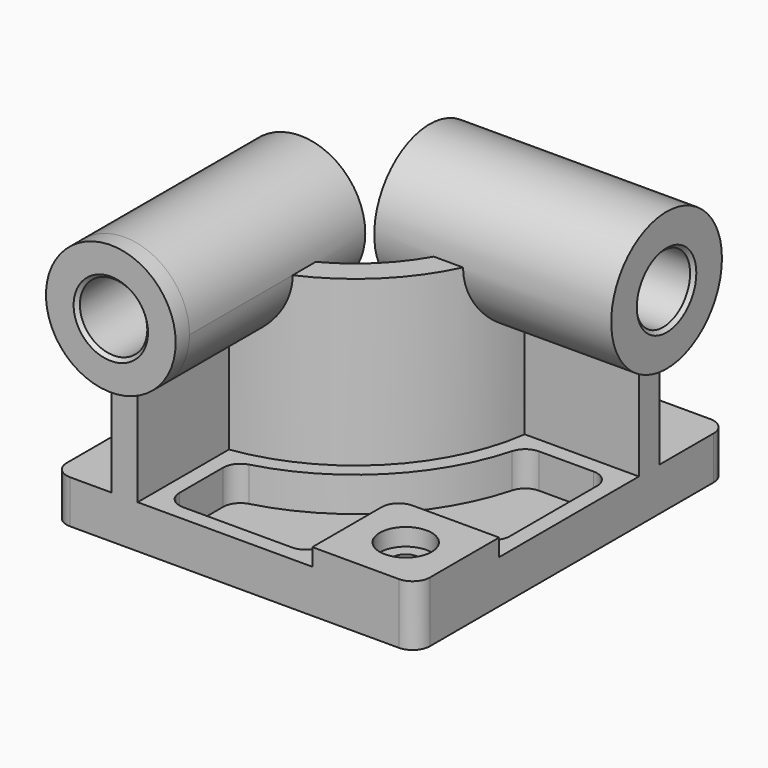
from build123d import *

# Parameters (mm, degrees)
F0_W            = 210
F0_H            = 225
F1_DEPTH        = 25
F3_DEPTH        = 95
F4_R            = 37.5
F5_DEPTH        = 10
F5_DEPTH_BACK   = 127
F6_R            = 40
F7_DEPTH        = 10
F7_DEPTH_BACK   = 127
F8_W            = 60
F8_H            = 60
F9_DEPTH        = 10
F10_R           = 10
F12_DEPTH       = 20
F14_D           = 15
F14_CBORE_D     = 30
F14_CBORE_DEPTH = 10
F15_R           = 10
F16_R           = 19.5
F17_DEPTH       = 235.001
F18_R           = 19.5
F19_DEPTH       = 220.001
F20_SIZE        = 2
F21_R           = 10


with BuildPart() as f1:
    # F0 (on Top) → F1 (new body)
    with BuildSketch(Plane.XY):
        Rectangle(F0_W, F0_H)
    extrude(amount=F1_DEPTH)

    # F2 (on face) → F3 (join)
    with BuildSketch(Plane.XY.offset(25)):
        with BuildLine():
            Line((-71, -32.5), (-71, -112.5))
            Line((-71, -112.5), (-56, -112.5))
            Line((-56, -112.5), (-56, -46.481817))
            ThreePointArc((-56, -46.481817), (7.488853, -14.988853), (38.981817, 48.5))
            Line((38.981817, 48.5), (105, 48.5))
            Line((105, 48.5), (105, 63.5))
            Line((105, 63.5), (25, 63.5))
            ThreePointArc((25, 63.5), (-3.117749, -4.382251), (-71, -32.5))
        make_face()
    extrude(amount=F3_DEPTH)

    # F4 (on face) → F5 (join, two sides)
    with BuildSketch(Plane.XZ.offset(112.5)) as f5_sk:
        with Locations((-63.5, 120)):
            Circle(F4_R)
    extrude(amount=F5_DEPTH)
    extrude(f5_sk.sketch, amount=-F5_DEPTH_BACK)

    # F6 (on face) → F7 (join, two sides)
    with BuildSketch(Plane.YZ.offset(105)) as f7_sk:
        with Locations((56, 120)):
            Circle(F6_R)
    extrude(amount=F7_DEPTH)
    extrude(f7_sk.sketch, amount=-F7_DEPTH_BACK)

    # F8 (on face) → F9 (join)
    with BuildSketch(Plane.XY.offset(25)):
        with Locations((75, -82.5)):
            Rectangle(F8_W, F8_H)
    extrude(amount=F9_DEPTH)

    # F10
    f10_edges = [f1.edges().sort_by_distance(p)[0] for p in [
        (45, -52.5, 30),
    ]]
    fillet(f10_edges, radius=F10_R)

    # F11 (on face) → F12 (cut)
    with BuildSketch(Plane.XY.offset(25)):
        with BuildLine():
            ThreePointArc((46.575508, 39.5), (13.852814, -21.352814), (-47, -54.075508))
            Line((-47, -54.075508), (-47, -103.5))
            Line((-47, -103.5), (36, -103.5))
            Line((36, -103.5), (36, -62.5))
            ThreePointArc((36, -62.5), (41.564971, -49.064971), (55, -43.5))
            Line((55, -43.5), (96, -43.5))
            Line((96, -43.5), (96, 39.5))
            Line((96, 39.5), (46.575508, 39.5))
        make_face()
    extrude(amount=-F12_DEPTH, mode=Mode.SUBTRACT)

    # F14 (through all)
    with Locations(Plane.XY.offset(35)):
        with Locations((75, -82.5)):
            CounterBoreHole(F14_D / 2, F14_CBORE_D / 2, F14_CBORE_DEPTH)

    # F15
    f15_edges = [f1.edges().sort_by_distance(p)[0] for p in [
        (-47, -54.075508, 15),
        (46.575508, 39.5, 15),
        (-47, -103.5, 15),
        (96, 39.5, 15),
        (36, -103.5, 15),
        (96, -43.5, 15),
    ]]
    fillet(f15_edges, radius=F15_R)

    # F16 (on face) → F17 (cut, through all)
    with BuildSketch(Plane.XZ.offset(122.5)):
        with Locations((-63.5, 120)):
            Circle(F16_R)
    extrude(amount=-F17_DEPTH, mode=Mode.SUBTRACT)

    # F18 (on face) → F19 (cut, through all)
    with BuildSketch(Plane.YZ.offset(115)):
        with Locations((56, 120)):
            Circle(F18_R)
    extrude(amount=-F19_DEPTH, mode=Mode.SUBTRACT)

    # F20
    f20_edges = [f1.edges().sort_by_distance(p)[0] for p in [
        (-83, -122.5, 120),
        (115, 36.5, 120),
        (-22, 36.5, 120),
        (-83, 14.5, 120),
    ]]
    chamfer(f20_edges, length=F20_SIZE)

    # F21
    f21_edges = [f1.edges().sort_by_distance(p)[0] for p in [
        (-105, -112.5, 12.5),
        (105, -112.5, 17.5),
        (105, 112.5, 12.5),
        (-105, 112.5, 12.5),
    ]]
    fillet(f21_edges, radius=F21_R)


solid = f1.part
